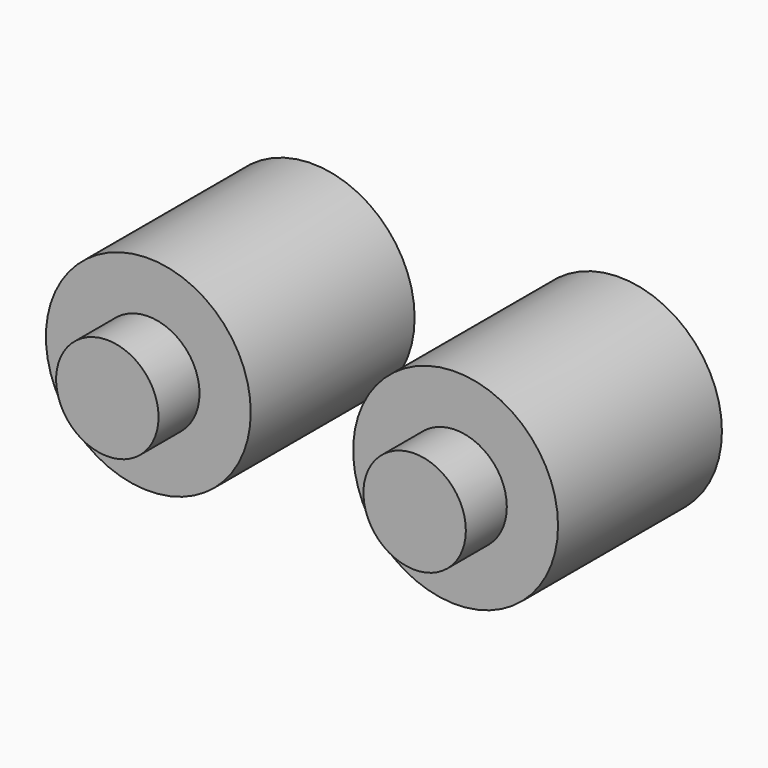
from build123d import *

# Parameters (mm, degrees)
F0_R     = 10
F1_DEPTH = 20
F2_R     = 5
F3_DEPTH = 5
F4_R     = 5
F5_DEPTH = 5


with BuildPart() as f1:
    # F0 (on Front) → F1 (new body)
    with BuildSketch(Plane.XZ):
        with Locations((-40.676259, 10.313648)):
            Circle(F0_R)
        with Locations((-10.676259, 10.313648)):
            Circle(F0_R)
    extrude(amount=F1_DEPTH)

    # F2 (on face) → F3 (join)
    with BuildSketch(Plane.XZ.offset(20)):
        with Locations((-40.676259, 10.313648)):
            Circle(F2_R)
    extrude(amount=F3_DEPTH)

    # F4 (on face) → F5 (join)
    with BuildSketch(Plane.XZ.offset(20)):
        with Locations((-10.676259, 10.313648)):
            Circle(F4_R)
    extrude(amount=F5_DEPTH)


solid = f1.part
